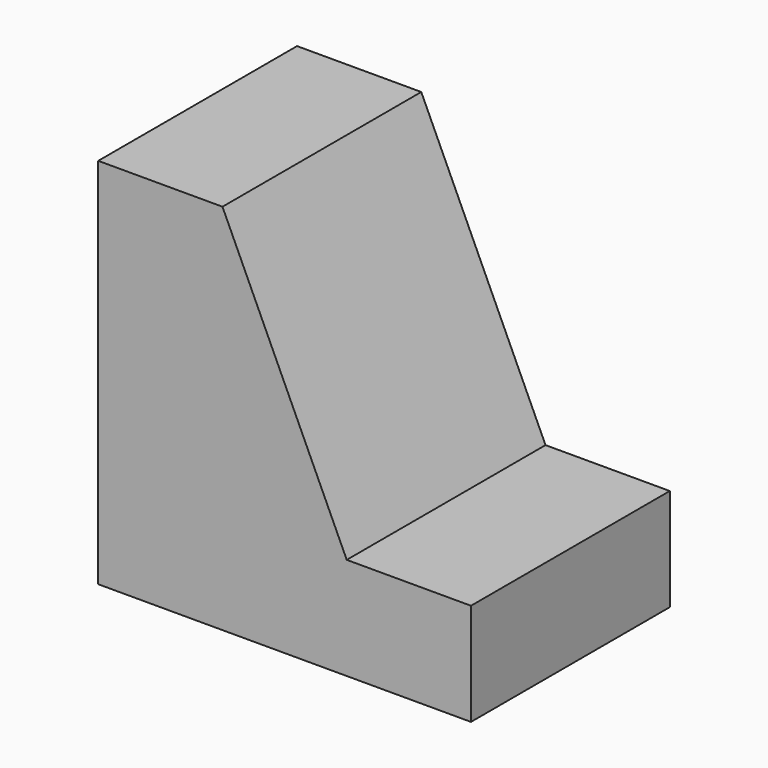
from build123d import *

# Parameters (mm, degrees)
F0_W     = 25.4
F0_H     = 38.1
F1_DEPTH = 38.1
F3_DEPTH = 25.4


with BuildPart() as f1:
    # F0 (on Right) → F1 (new body)
    with BuildSketch(Plane.YZ):
        with Locations((-5.703593, 19.05)):
            Rectangle(F0_W, F0_H)
    extrude(amount=F1_DEPTH)

    # F2 (on face) → F3 (cut)
    with BuildSketch(Plane.XZ.offset(18.403593)):
        Polygon((38.1, 38.1), (12.7, 38.1), (25.4, 10.454088), (38.1, 10.454088), align=None)
    extrude(amount=-F3_DEPTH, mode=Mode.SUBTRACT)


solid = f1.part
